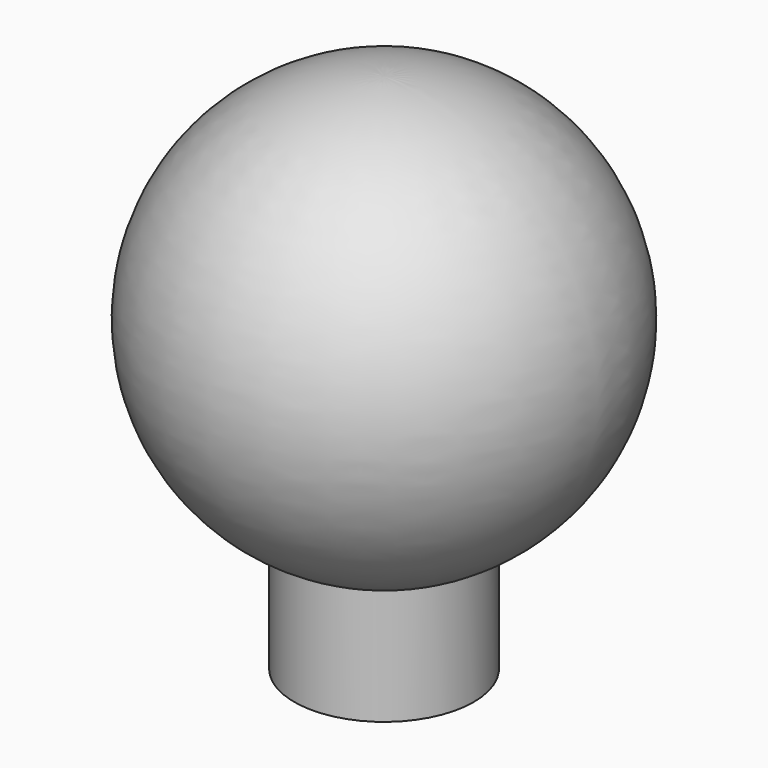
from build123d import *

# Parameters (mm, degrees)
F0_R     = 7.75
F1_DEPTH = 10
F4_R     = 2.75
F5_DEPTH = 10


with BuildPart() as f1:
    # F0 (on Top) → F1 (new body)
    with BuildSketch(Plane.XY):
        Circle(F0_R)
    extrude(amount=F1_DEPTH)

    # F2 (on Front) → F3 (revolve)
    with BuildSketch(Plane.XZ):
        with BuildLine():
            ThreePointArc((0, 8.283929), (18.358036, 26.641964), (0, 45))
            Line((0, 45), (0, 8.283929))
        make_face()
    revolve(axis=Axis((0, 0, 26.641964), (0, 0, -1)))

    # F4 (on face) → F5 (cut)
    with BuildSketch(Plane(origin=(0, 0, 0), x_dir=(1, 0, 0), z_dir=(0, 0, -1))):
        Circle(F4_R)
    extrude(amount=-F5_DEPTH, mode=Mode.SUBTRACT)

    # F6 (on Front) → F7 (revolve, cut)
    with BuildSketch(Plane.XZ):
        with BuildLine():
            ThreePointArc((2.75, 10), (0, 12.75), (-2.75, 10))
            Line((-2.75, 10), (2.75, 10))
        make_face()
    revolve(axis=Axis((0, 0, 10), (1, 0, 0)), mode=Mode.SUBTRACT)


solid = f1.part
